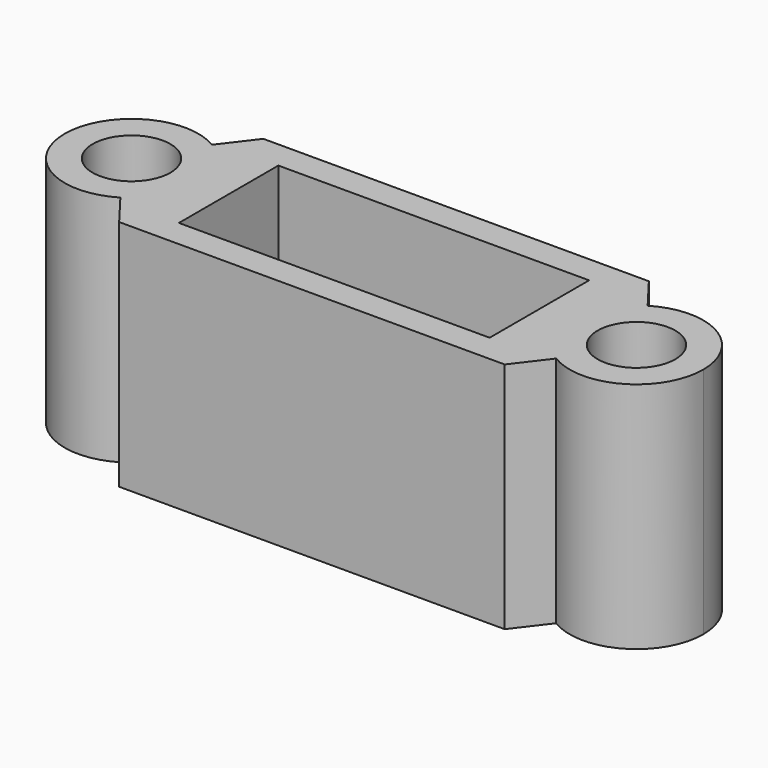
from build123d import *

# Parameters (mm, degrees)
F1_R     = 2.5
F1_W     = 20
F1_H     = 8
F2_DEPTH = 15


with BuildPart() as f2:
    # F1 (on Top) → F2 (new body)
    with BuildSketch(Plane.XY):
        with BuildLine():
            ThreePointArc((-14.0242425586, -3.6791308501), (-12.5042853153, -2.1117815941), (-11.95, 0))
            ThreePointArc((-11.95, 0), (-12.5042853153, 2.1117815941), (-14.0242425586, 3.6791308501))
            ThreePointArc((-14.0242425586, 3.6791308501), (-20.55, 0), (-14.0242425586, -3.6791308501))
        make_face()
        with Locations((-16.25, 0)):
            Circle(F1_R, mode=Mode.SUBTRACT)
        with BuildLine():
            ThreePointArc((-14.0242425586, 3.6791308501), (-12.5042853153, 2.1117815941), (-11.95, 0))
            ThreePointArc((-11.95, 0), (-12.5042853153, -2.1117815941), (-14.0242425586, -3.6791308501))
            Line((-14.0242425586, -3.6791308501), (-12.4064937305, -5.8))
            Line((-12.4064937305, -5.8), (0, -5.8))
            Line((0, -5.8), (12.4064937305, -5.8))
            Line((12.4064937305, -5.8), (14.0242425586, -3.6791308501))
            ThreePointArc((14.0242425586, -3.6791308501), (11.95, 0), (14.0242425586, 3.6791308501))
            Line((14.0242425586, 3.6791308501), (12.4064937305, 5.8))
            Line((12.4064937305, 5.8), (0, 5.8))
            Line((0, 5.8), (-12.4064937305, 5.8))
            Line((-12.4064937305, 5.8), (-14.0242425586, 3.6791308501))
        make_face()
        Rectangle(F1_W, F1_H, mode=Mode.SUBTRACT)
        with BuildLine():
            ThreePointArc((20.55, 0), (18.3617815941, 3.7457146847), (14.0242425586, 3.6791308501))
            ThreePointArc((14.0242425586, 3.6791308501), (11.95, 0), (14.0242425586, -3.6791308501))
            ThreePointArc((14.0242425586, -3.6791308501), (18.3617815941, -3.7457146847), (20.55, 0))
        make_face()
        with Locations((16.25, 0)):
            Circle(F1_R, mode=Mode.SUBTRACT)
    extrude(amount=F2_DEPTH)


solid = f2.part
